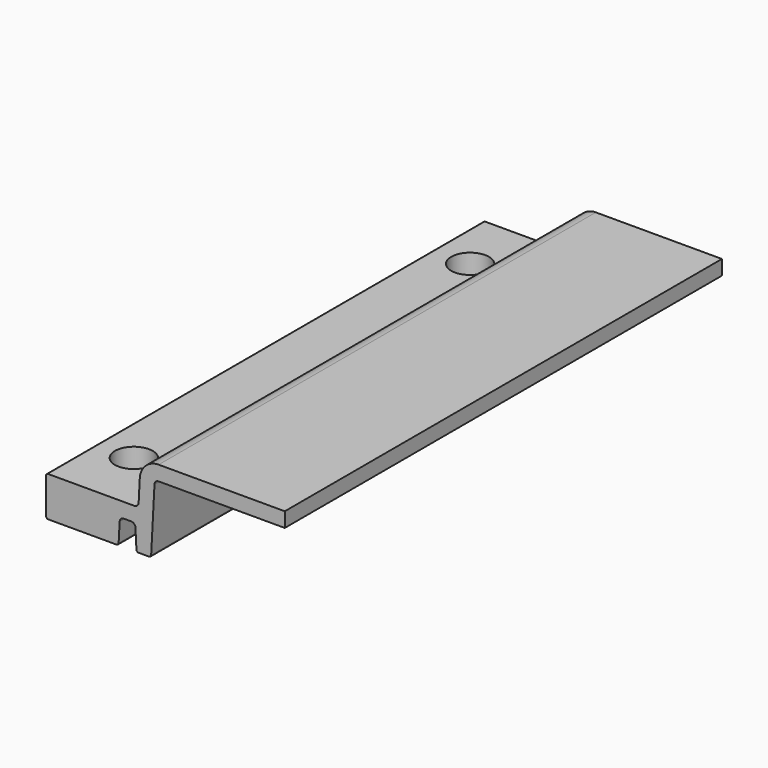
from build123d import *

# Parameters (mm, degrees)
F1_DEPTH = 130
F3_D     = 9
F4_D     = 9


with BuildPart() as f1:
    # F0 (on Front) → F1 (new body)
    with BuildSketch(Plane.XZ):
        with BuildLine():
            Line((0, 8.5), (0, 0))
            ThreePointArc((0, 0), (0.146447, -0.353553), (0.5, -0.5))
            Line((0.5, -0.5), (16.760787, -0.5))
            ThreePointArc((16.760787, -0.5), (17.104964, -0.362687), (17.260102, -0.026168))
            Line((17.260102, -0.026168), (17.500051, 4.552336))
            ThreePointArc((17.500051, 4.552336), (17.810326, 5.225374), (18.49868, 5.5))
            Line((18.49868, 5.5), (20.261421, 5.5))
            ThreePointArc((20.261421, 5.5), (20.949776, 5.225374), (21.260051, 4.552336))
            Line((21.260051, 4.552336), (21.5, -0.026168))
            ThreePointArc((21.5, -0.026168), (21.655137, -0.362687), (21.999315, -0.5))
            Line((21.999315, -0.5), (24.500685, -0.5))
            ThreePointArc((24.500685, -0.5), (24.844863, -0.362687), (25, -0.026168))
            Line((25, -0.026168), (25.790231, 15.052336))
            ThreePointArc((25.790231, 15.052336), (26.100506, 15.725374), (26.78886, 16))
            Line((26.78886, 16), (56.78886, 16))
            Line((56.78886, 16), (56.78886, 19.5))
            Line((56.78886, 19.5), (26.78886, 19.5))
            ThreePointArc((26.78886, 19.5), (23.691265, 18.264185), (22.295028, 15.235512))
            Line((22.295028, 15.235512), (22.017903, 9.947664))
            ThreePointArc((22.017903, 9.947664), (21.707628, 9.274626), (21.019274, 9))
            Line((21.019274, 9), (0.5, 9))
            ThreePointArc((0.5, 9), (0.146447, 8.853553), (0, 8.5))
        make_face()
    extrude(amount=F1_DEPTH)

    # F3 (through all)
    with Locations(Plane.XY.offset(9)):
        with Locations((8.88, -15)):
            Hole(F3_D / 2)

    # F4 (through all)
    with Locations(Plane.XY.offset(9)):
        with Locations((8.88, -115)):
            Hole(F4_D / 2)


solid = f1.part
